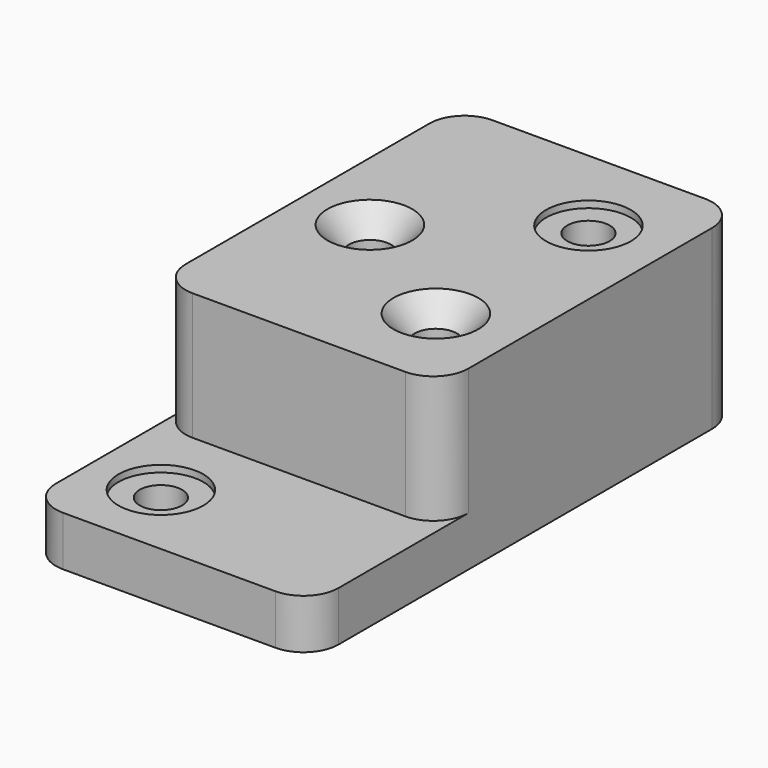
from build123d import *

# Parameters (mm, degrees)
F0_W           = 127
F0_H           = 168.402
F1_DEPTH       = 79.502
F0_H_2         = 72.898
F2_DEPTH       = 22.352
F4_D           = 19.05
F4_START       = 57.15
F4_CBORE_D     = 38.1
F4_CBORE_DEPTH = 3.048
F5_D           = 19.05
F5_CSINK_D     = 38.1
F5_CSINK_ANGLE = 82
F6_R           = 15.748


with BuildPart() as f1:
    # F0 (on Top) → F1 (new body)
    with BuildSketch(Plane.XY):
        with Locations((0, 84.201)):
            Rectangle(F0_W, F0_H)
    extrude(amount=F1_DEPTH)

    # F0 (on Top) → F2 (join)
    with BuildSketch(Plane.XY):
        with Locations((0, -36.449)):
            Rectangle(F0_W, F0_H_2)
    extrude(amount=F2_DEPTH)

    # F4 (through all)
    # its depths count from where the whole tool has entered the part; down to there all is cleared
    with Locations(Plane.XY.offset(79.502)):
        with Locations((28.5079553723, 126.9378662109, 0), (-31.7375324667, -37.879139185, -F4_START)):
            CounterBoreHole(F4_D / 2, F4_CBORE_D / 2, F4_CBORE_DEPTH)

    # F5 (through all)
    with Locations(Plane.XY.offset(79.502)):
        with Locations((-31.7388139665, 79.5003995299), (28.4815337509, 41.2864275277)):
            CounterSinkHole(F5_D / 2, F5_CSINK_D / 2, counter_sink_angle=F5_CSINK_ANGLE)

    # F6
    f6_edges = [f1.edges().sort_by_distance(p)[0] for p in [
        (63.5, 0, 50.927),
        (-63.5, 0, 50.927),
        (63.5, -72.898, 11.176),
        (-63.5, -72.898, 11.176),
        (63.5, 168.402, 39.751),
        (-63.5, 168.402, 39.751),
    ]]
    fillet(f6_edges, radius=F6_R)


solid = f1.part
